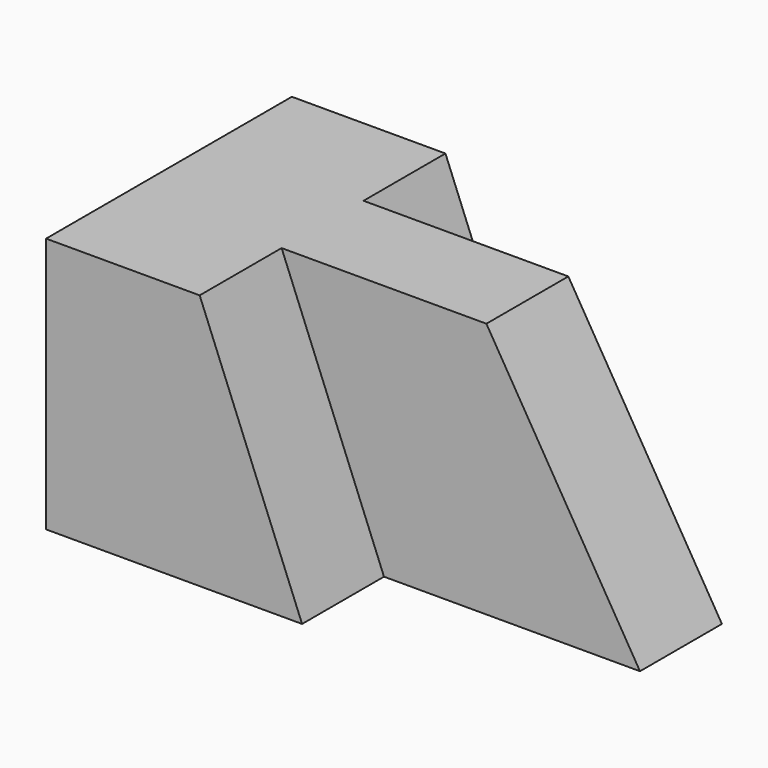
from build123d import *

# Parameters (mm, degrees)
F1_DEPTH = 31.75
F3_DEPTH = 12.7
F5_DEPTH = 25.401
F7_DEPTH = 12.7


with BuildPart() as f1:
    # F0 (on Top) → F1 (new body)
    with BuildSketch(Plane.XY):
        Polygon((-21.302015, -4.168983), (-53.052015, -4.168983), (-53.052015, -42.268983), (-21.302015, -42.268983), (-21.302015, -29.568983), (10.447985, -29.568983), (10.447985, -16.868983), (-21.302015, -16.868983), align=None)
    extrude(amount=F1_DEPTH)

    # F2 (on face) → F3 (cut)
    with BuildSketch(Plane.XZ.offset(42.268983)):
        Polygon((-21.302015, 31.75), (-34.002015, 31.75), (-21.302015, 0), align=None)
    extrude(amount=-F3_DEPTH, mode=Mode.SUBTRACT)

    # F4 (on face) → F5 (cut, through all)
    with BuildSketch(Plane.XZ.offset(29.568983)):
        Polygon((10.447985, 31.75), (-8.602015, 31.75), (10.447985, 0), align=None)
    extrude(amount=-F5_DEPTH, mode=Mode.SUBTRACT)

    # F6 (on face) → F7 (cut)
    with BuildSketch(Plane(origin=(0, -4.168983, 0), x_dir=(-1, 0, 0), z_dir=(0, 1, 0))):
        Polygon((21.302015, 0), (34.002015, 31.75), (21.302015, 31.75), align=None)
    extrude(amount=-F7_DEPTH, mode=Mode.SUBTRACT)


solid = f1.part
